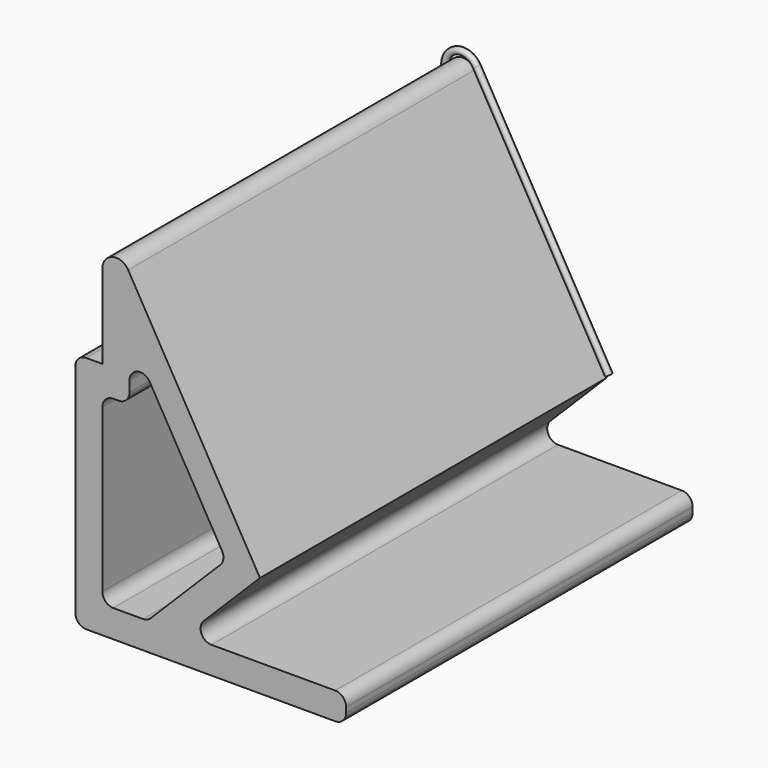
from build123d import *

# Parameters (mm, degrees)
F1_R     = 0.381
F4_DEPTH = 50.8


with BuildPart() as f2:
    # F2: sweep along a path in F0
    with BuildLine(Plane.XZ) as f2_path:
        Line((0, 0), (0, 10.16))
        ThreePointArc((0, 10.16), (1.4617579121, 12.065), (3.6801773982, 11.1461005618))
        Line((3.6801773982, 11.1461005618), (19.1741773982, -15.6902946506))
    # F1 (on Top) → F2 (sweep)
    with BuildSketch(Plane.XY):
        Circle(F1_R)
    sweep(path=f2_path.line)


with BuildPart() as f4:
    # F3 (on Front) → F4 (new body)
    with BuildSketch(Plane.XZ):
        with BuildLine():
            Line((-1.4751913242, -28.013853085), (27.7348086758, -28.013853085))
            ThreePointArc((27.7348086758, -28.013853085), (28.6328342879, -27.6418786971), (29.0048086758, -26.743853085))
            Line((29.0048086758, -26.743853085), (29.0048086758, -26.108853085))
            ThreePointArc((29.0048086758, -26.108853085), (28.6328342879, -25.2108274729), (27.7348086758, -24.838853085))
            Line((27.7348086758, -24.838853085), (13.215946679, -24.838853085))
            ThreePointArc((13.215946679, -24.838853085), (12.0426196727, -24.0548610441), (12.3179210669, -22.6708274729))
            Line((12.3179210669, -22.6708274729), (18.904161922, -16.0845866178))
            Line((18.904161922, -16.0845866178), (3.4513703108, 10.6804335716))
            ThreePointArc((3.4513703108, 10.6804335716), (1.629965937, 11.4348839658), (0.4298086758, 9.8708085716))
            Line((0.4298086758, 9.8708085716), (0.4298086758, 0))
            Line((0.4298086758, 0), (-1.4751913242, 0))
            ThreePointArc((-1.4751913242, 0), (-2.3732169363, -0.3719743879), (-2.7451913242, -1.27))
            Line((-2.7451913242, -1.27), (-2.7451913242, -26.743853085))
            ThreePointArc((-2.7451913242, -26.743853085), (-2.3732169363, -27.6418786971), (-1.4751913242, -28.013853085))
        make_face()
        with BuildLine():
            Line((5.1876620858, -24.7849071693), (1.6998086758, -24.7849071693))
            ThreePointArc((1.6998086758, -24.7849071693), (0.8017830637, -24.4129327814), (0.4298086758, -23.5149071693))
            Line((0.4298086758, -23.5149071693), (0.4298086758, -4.445))
            ThreePointArc((0.4298086758, -4.445), (0.8017830637, -3.5469743879), (1.6998086758, -3.175))
            Line((1.6998086758, -3.175), (2.3348086758, -3.175))
            ThreePointArc((2.3348086758, -3.175), (3.2328342879, -2.8030256121), (3.6048086758, -1.905))
            Line((3.6048086758, -1.905), (3.6048086758, -0.6750339979))
            ThreePointArc((3.6048086758, -0.6750339979), (4.5461084885, 0.5516918015), (5.9746609386, -0.0400339979))
            Line((5.9746609386, -0.0400339979), (14.4491470342, -14.7182744836))
            ThreePointArc((14.4491470342, -14.7182744836), (14.6084297454, -15.5190427478), (14.2473203835, -16.2513000957))
            Line((14.2473203835, -16.2513000957), (6.0856876979, -24.4129327814))
            ThreePointArc((6.0856876979, -24.4129327814), (5.6736700449, -24.6882341756), (5.1876620858, -24.7849071693))
        make_face(mode=Mode.SUBTRACT)
    extrude(amount=F4_DEPTH)


solid = Compound([f2.part, f4.part])
